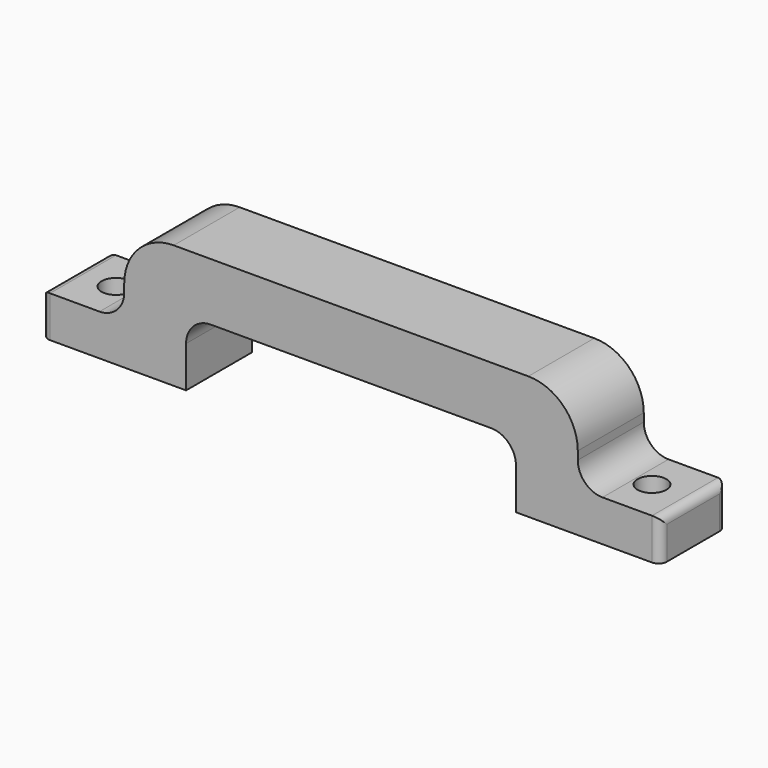
from build123d import *

# Parameters (mm, degrees)
SKETCH_W        = 75
SKETCH_H        = 10
PAD_DEPTH       = 15
SKETCH001_W     = 10
SKETCH001_H     = 10
POCKET_DEPTH    = 25
SKETCH002_R     = 1.75
POCKET001_DEPTH = 5
SKETCH003_W     = 40
SKETCH003_H     = 10
POCKET002_DEPTH = 8
FILLET_R        = 3
FILLET001_R     = 6
FILLET002_R     = 3
FILLET003_R     = 1


with BuildPart() as part:
    # Sketch → Pad (new body)
    with BuildSketch(Plane.XY):
        Rectangle(SKETCH_W, SKETCH_H)
    extrude(amount=PAD_DEPTH)

    # Sketch001 → Pocket (cut)
    with BuildSketch(Plane.XY.offset(5)):
        with Locations((-32.5, 0)):
            Rectangle(SKETCH001_W, SKETCH001_H)
        with Locations((32.5, 0)):
            Rectangle(SKETCH001_W, SKETCH001_H)
    extrude(amount=POCKET_DEPTH, mode=Mode.SUBTRACT)

    # Sketch002 → Pocket001 (cut)
    with BuildSketch(Plane.XY):
        with Locations((-32.5, 0)):
            Circle(SKETCH002_R)
        with Locations((32.5, 0)):
            Circle(SKETCH002_R)
    extrude(amount=POCKET001_DEPTH, mode=Mode.SUBTRACT)

    # Sketch003 → Pocket002 (cut)
    with BuildSketch(Plane.XY):
        Rectangle(SKETCH003_W, SKETCH003_H)
    extrude(amount=POCKET002_DEPTH, mode=Mode.SUBTRACT)

    # Fillet
    fillet_edges = [part.edges().sort_by_distance(p)[0] for p in [
        (-27.5, 0, 5),
        (27.5, 0, 5),
    ]]
    fillet(fillet_edges, radius=FILLET_R)

    # Fillet001
    fillet001_edges = [part.edges().sort_by_distance(p)[0] for p in [
        (-27.5, 0, 15),
        (27.5, 0, 15),
    ]]
    fillet(fillet001_edges, radius=FILLET001_R)

    # Fillet002
    fillet002_edges = [part.edges().sort_by_distance(p)[0] for p in [
        (-20, 0, 8),
        (20, 0, 8),
    ]]
    fillet(fillet002_edges, radius=FILLET002_R)

    # Fillet003
    fillet003_edges = [part.edges().sort_by_distance(p)[0] for p in [
        (-37.5, 0, 5),
        (-37.5, -5, 2.5),
        (-37.5, 5, 2.5),
        (37.5, -5, 2.5),
        (37.5, 0, 5),
        (37.5, 5, 2.5),
    ]]
    fillet(fillet003_edges, radius=FILLET003_R)


solid = part.part
